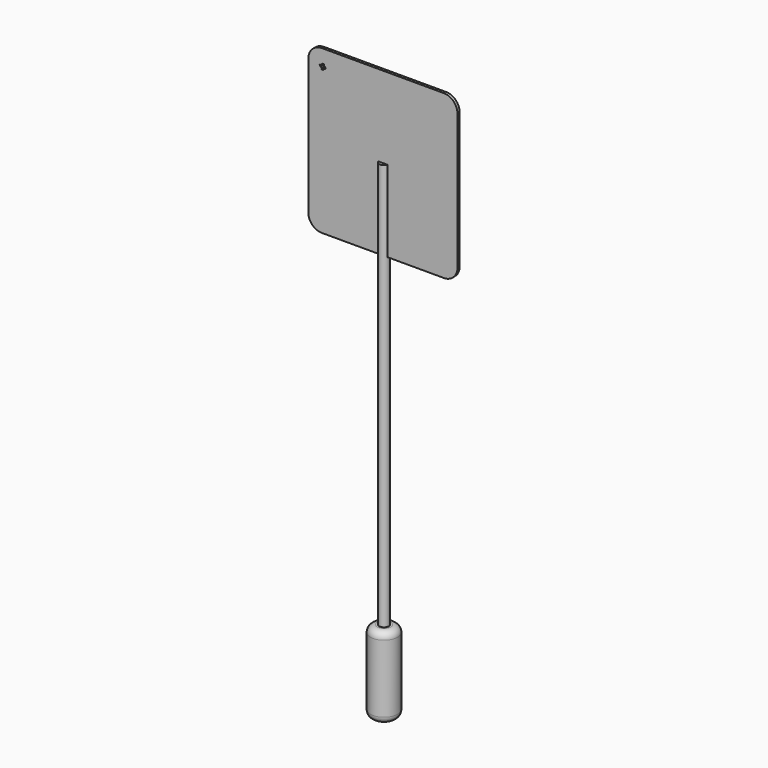
from build123d import *

# Parameters (mm, degrees)
F0_W     = 3.5
F0_H     = 60
F4_DEPTH = 1
F5_R     = 10
F6_R     = 5
F8_DEPTH = 12.5


with BuildPart() as f1:
    # F0 (on Front) → F1 (revolve)
    with BuildSketch(Plane.XZ):
        with Locations((-1.75, 330)):
            Rectangle(F0_W, F0_H)
        Polygon((0, 60), (0, 300), (-3.5, 300), (-3.5, 30), (0, 30), align=None)
    revolve(axis=Axis((0, 0, 195), (0, 0, -1)))


with BuildPart() as f2:
    # F0 (on Front) → F2 (revolve)
    with BuildSketch(Plane.XZ):
        Polygon((10, 60), (0, 60), (0, 30), (0, 0), (10, 0), align=None)
    revolve(axis=Axis((0, 0, 30), (0, 0, 1)))

    # F3: cut F1
    add(f1.part, mode=Mode.SUBTRACT)

    # F6
    f6_edges = [f2.edges().sort_by_distance(p)[0] for p in [
        (-10, 0, 60),
        (-10, 0, 0),
    ]]
    fillet(f6_edges, radius=F6_R)


with BuildPart() as f4:
    # F0 (on Front) → F4 (new body, symmetric)
    with BuildSketch(Plane.XZ):
        Polygon((55, 300), (55, 420), (-55, 420), (-55, 300), (-3.5, 300), (-3.5, 360), (0, 360), (0, 300), align=None)
        with Locations((-1.75, 330)):
            Rectangle(F0_W, F0_H)
    extrude(amount=F4_DEPTH, both=True)

    # F5
    f5_edges = [f4.edges().sort_by_distance(p)[0] for p in [
        (-55, 0, 420),
        (55, 0, 420),
        (-55, 0, 300),
        (55, 0, 300),
    ]]
    fillet(f5_edges, radius=F5_R)

    # F7 (on Front) → F8 (cut, symmetric)
    with BuildSketch(Plane.XZ):
        Polygon((-43.2, 410), (-45, 410), (-44.1, 408.441154), align=None)
        Polygon((-44.875, 408.830866), (-46.675, 408.830866), (-45.775, 407.27202), align=None)
        Polygon((-43.678195, 406.05405), (-44.578195, 407.612895), (-45.478195, 406.05405), align=None)
        Polygon((-42.048205, 407.223184), (-42.9257, 408.74305), (-43.803195, 407.223184), align=None)
    extrude(amount=F8_DEPTH, both=True, mode=Mode.SUBTRACT)


solid = Compound([f1.part, f2.part, f4.part])
